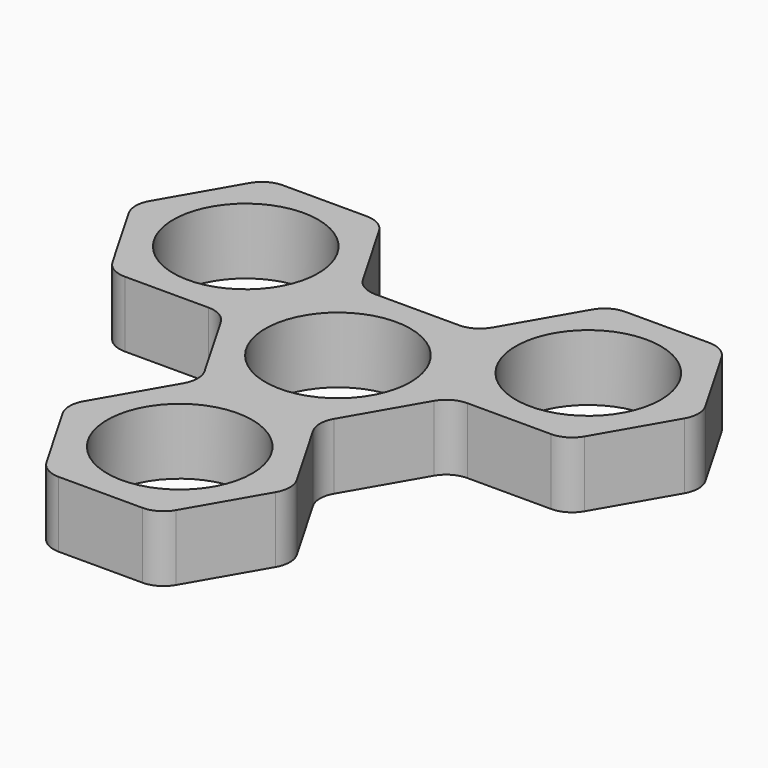
from build123d import *

# Parameters (mm, degrees)
F0_R     = 11
F1_DEPTH = 10
F2_R     = 4


with BuildPart() as f1:
    # F0 (on Top) → F1 (new body)
    with BuildSketch(Plane.XY):
        Polygon((-34.641016, 0), (-17.320508, 0), (-8.660254, 15), (-17.320508, 30), (-34.641016, 30), (-43.30127, 15), align=None)
        with Locations((-25.980762, 15)):
            Circle(F0_R, mode=Mode.SUBTRACT)
        Polygon((-8.660254, -15), (8.660254, -15), (17.320508, 0), (8.660254, 15), (-8.660254, 15), (-17.320508, 0), align=None)
        Circle(F0_R, mode=Mode.SUBTRACT)
        Polygon((8.660254, 15), (17.320508, 0), (34.641016, 0), (43.30127, 15), (34.641016, 30), (17.320508, 30), align=None)
        with Locations((25.980762, 15)):
            Circle(F0_R, mode=Mode.SUBTRACT)
        Polygon((17.320508, -30), (8.660254, -15), (-8.660254, -15), (-17.320508, -30), (-8.660254, -45), (8.660254, -45), align=None)
        with Locations((0, -30)):
            Circle(F0_R, mode=Mode.SUBTRACT)
    extrude(amount=F1_DEPTH)

    # F2
    f2_edges = [f1.edges().sort_by_distance(p)[0] for p in [
        (8.660254, -45, 5),
        (17.320508, -30, 5),
        (8.660254, -15, 5),
        (34.641016, 0, 5),
        (17.320508, 0, 5),
        (43.30127, 15, 5),
        (34.641016, 30, 5),
        (17.320508, 30, 5),
        (8.660254, 15, 5),
        (-8.660254, 15, 5),
        (-17.320508, 30, 5),
        (-34.641016, 30, 5),
        (-43.30127, 15, 5),
        (-34.641016, 0, 5),
        (-17.320508, 0, 5),
        (-8.660254, -15, 5),
        (-17.320508, -30, 5),
        (-8.660254, -45, 5),
    ]]
    fillet(f2_edges, radius=F2_R)


solid = f1.part
